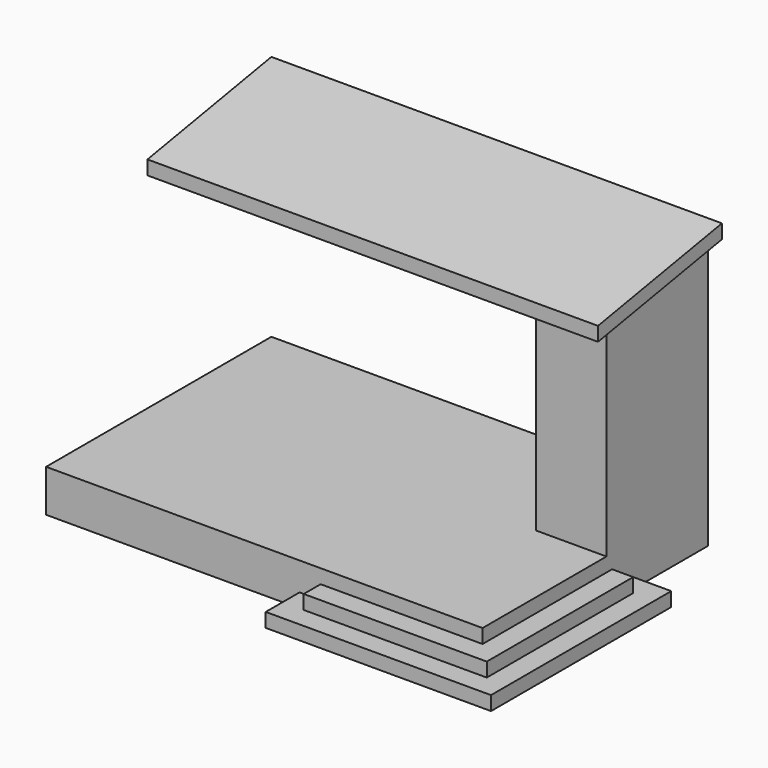
from build123d import *

# Parameters (mm, degrees)
F0_W      = 6200
F0_H      = 4000
F1_DEPTH  = 600
F3_DEPTH  = 200
F5_DEPTH  = 200
F6_W      = 1000
F6_H      = 1800
F6_W_2    = 900
F6_H_2    = 1700
F7_DEPTH  = 3300
F9_DEPTH  = 6200.001
F11_DEPTH = 6200
F12_DEPTH = 200
F13_W     = 800
F13_H     = 1900
F14_DEPTH = 50


with BuildPart() as f1:
    # F0 (on Top) → F1 (new body)
    with BuildSketch(Plane.XY):
        with Locations((3100, -2000)):
            Rectangle(F0_W, F0_H)
    extrude(amount=F1_DEPTH)

    # F2 (on face) → F3 (join)
    with BuildSketch(Plane(origin=(0, 0, 0), x_dir=(1, 0, 0), z_dir=(0, 0, -1))):
        Polygon((6200, 4000), (6200, 1400), (6800, 1400), (6800, 4600), (3600, 4600), (3600, 4000), align=None)
    extrude(amount=-F3_DEPTH)

    # F4 (on face) → F5 (join)
    with BuildSketch(Plane.XY.offset(200)):
        Polygon((3900, -4000), (3900, -4300), (6500, -4300), (6500, -1700), (6200, -1700), (6200, -4000), align=None)
    extrude(amount=F5_DEPTH)

    # F6 (on face) → F7 (join)
    with BuildSketch(Plane.XY.offset(600)):
        with Locations((5700, -900)):
            Rectangle(F6_W, F6_H)
        with Locations((5700, -900)):
            Rectangle(F6_W_2, F6_H_2, mode=Mode.SUBTRACT)
    extrude(amount=F7_DEPTH)

    # F8 (on face) → F9 (cut, through all)
    with BuildSketch(Plane.YZ.offset(6200)):
        Polygon((-1800, 3582.611435), (0, 3900), (-1800, 3900), align=None)
    extrude(amount=-F9_DEPTH, mode=Mode.SUBTRACT)

    # F10 (on face) → F11 (join)
    with BuildSketch(Plane.YZ.offset(6200)):
        Polygon((-2200, 3512.080642), (0, 3900), (0, 4100), (-2200, 3712.080642), align=None)
    extrude(amount=-F11_DEPTH)

    # F10 (on face) → F12 (join)
    with BuildSketch(Plane.YZ.offset(6200)):
        Polygon((-2200, 3512.080642), (0, 3900), (0, 4100), (-2200, 3712.080642), align=None)
    extrude(amount=F12_DEPTH)

    # F13 (on face) → F14 (cut, through all)
    with BuildSketch(Plane(origin=(5200, 0, 0), x_dir=(0, -1, 0), z_dir=(-1, 0, 0))):
        with Locations((1350, 1550)):
            Rectangle(F13_W, F13_H)
    extrude(amount=-F14_DEPTH, mode=Mode.SUBTRACT)


solid = f1.part
